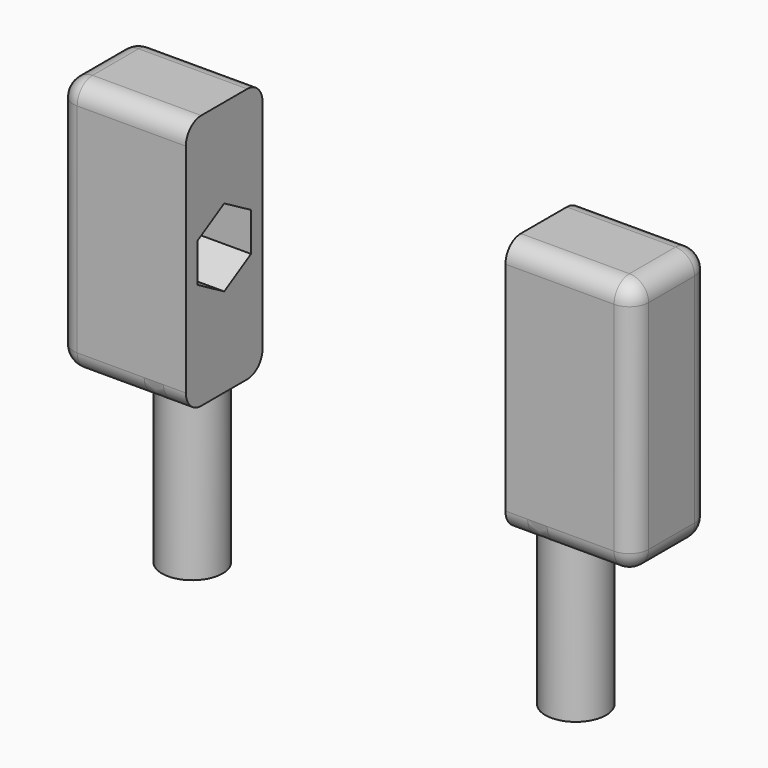
from build123d import *

# Parameters (mm, degrees)
F0_W     = 20
F0_H     = 40
F1_DEPTH = 7.5
F3_DEPTH = 15
F5_R     = 4.75
F6_DEPTH = 25
F7_R     = 3


with BuildPart() as f1:
    # F0 (on Front) → F1 (new body, symmetric)
    with BuildSketch(Plane.XZ):
        with Locations((-10, 0)):
            Rectangle(F0_W, F0_H)
    extrude(amount=F1_DEPTH, both=True)

    # F2 (on Right) → F3 (cut)
    with BuildSketch(Plane.YZ):
        Polygon((0, -6.062178), (5.25, -3.031089), (5.25, 3.031089), (0, 6.062178), (-5.25, 3.031089), (-5.25, -3.031089), align=None)
    extrude(amount=-F3_DEPTH, mode=Mode.SUBTRACT)

    # F5 (on offset) → F6 (join)
    with BuildSketch(Plane.XY.offset(-20)):
        with Locations((-5, 0)):
            Circle(F5_R)
    extrude(amount=-F6_DEPTH)

    # F7
    f7_edges = [f1.edges().sort_by_distance(p)[0] for p in [
        (-10, -7.5, 20),
        (-10, 7.5, 20),
        (-20, -7.5, 0),
        (-20, 7.5, 0),
        (-20, 0, 20),
        (-10, 7.5, -20),
        (-10, -7.5, -20),
        (-20, 0, -20),
    ]]
    fillet(f7_edges, radius=F7_R)


with BuildPart() as f9_1:
    # F9: instance of F1
    add(f1.part.mirror(Plane.YZ.offset(25)))


solid = Compound([f1.part, f9_1.part])
